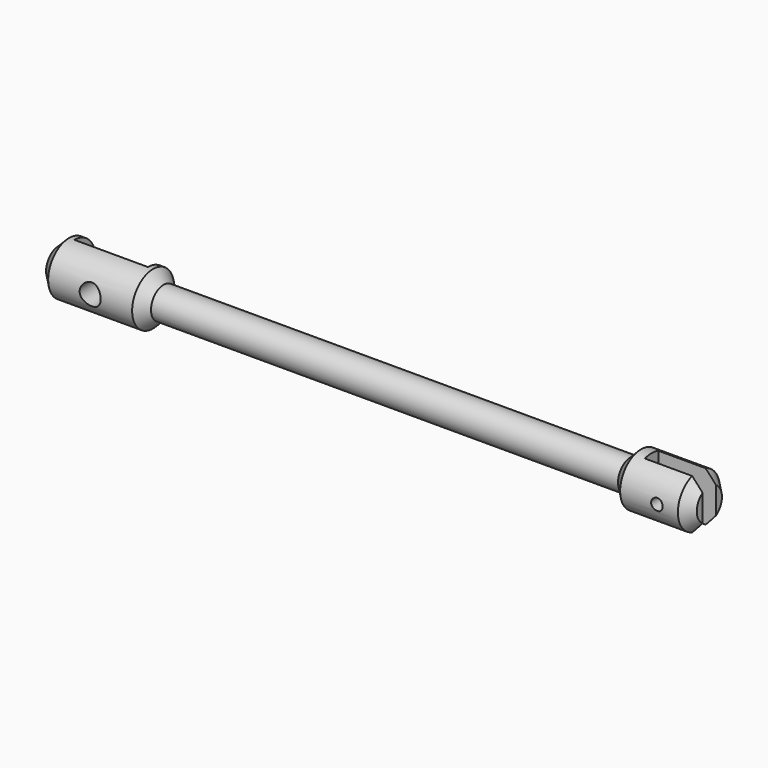
from build123d import *

# Parameters (mm, degrees)
F2_DEPTH = 12.7
F3_W     = 7
F3_H     = 4.492721
F3_W_2   = 5.5
F3_H_2   = 1.6
F4_DEPTH = 12.7


with BuildPart() as f1:
    # F0 (on Front) → F1 (revolve)
    with BuildSketch(Plane.XZ):
        with BuildLine():
            ThreePointArc((-1, 0), (0, 1), (1, 0))
            Line((1, 0), (53.45, 0))
            ThreePointArc((53.45, 0), (54, 0.55), (54.55, 0))
            Line((54.55, 0), (57, 0))
            Line((57, 0), (57, 1.5))
            Line((57, 1.5), (56, 2.5))
            Line((56, 2.5), (50.5, 2.5))
            Line((50.5, 2.5), (49.5, 1.5))
            Line((49.5, 1.5), (5, 1.5))
            Line((5, 1.5), (4, 2.5))
            Line((4, 2.5), (-4, 2.5))
            Line((-4, 2.5), (-5, 1.5))
            Line((-5, 1.5), (-5, 0))
            Line((-5, 0), (-1, 0))
        make_face()
        with BuildLine():
            ThreePointArc((-1, 0), (0, -1), (1, 0))
            Line((1, 0), (-1, 0))
        make_face()
        with BuildLine():
            Line((54.55, 0), (53.45, 0))
            ThreePointArc((53.45, 0), (54, -0.55), (54.55, 0))
        make_face()
    revolve(axis=Axis((26, 0, 0), (1, 0, 0)))

    # F0 (on Front) → F2 (cut, symmetric)
    with BuildSketch(Plane.XZ):
        with BuildLine():
            Line((-1, 0), (1, 0))
            ThreePointArc((1, 0), (0, 1), (-1, 0))
        make_face()
        with BuildLine():
            ThreePointArc((-1, 0), (0, -1), (1, 0))
            Line((1, 0), (-1, 0))
        make_face()
        with BuildLine():
            ThreePointArc((54.55, 0), (54, 0.55), (53.45, 0))
            Line((53.45, 0), (54.55, 0))
        make_face()
        with BuildLine():
            Line((54.55, 0), (53.45, 0))
            ThreePointArc((53.45, 0), (54, -0.55), (54.55, 0))
        make_face()
    extrude(amount=F2_DEPTH, both=True, mode=Mode.SUBTRACT)

    # F3 (on Top) → F4 (cut, symmetric)
    with BuildSketch(Plane.XY):
        with Locations((0, 2.24636)):
            Rectangle(F3_W, F3_H)
        with Locations((54.25, 0)):
            Rectangle(F3_W_2, F3_H_2)
    extrude(amount=F4_DEPTH, both=True, mode=Mode.SUBTRACT)


solid = f1.part
